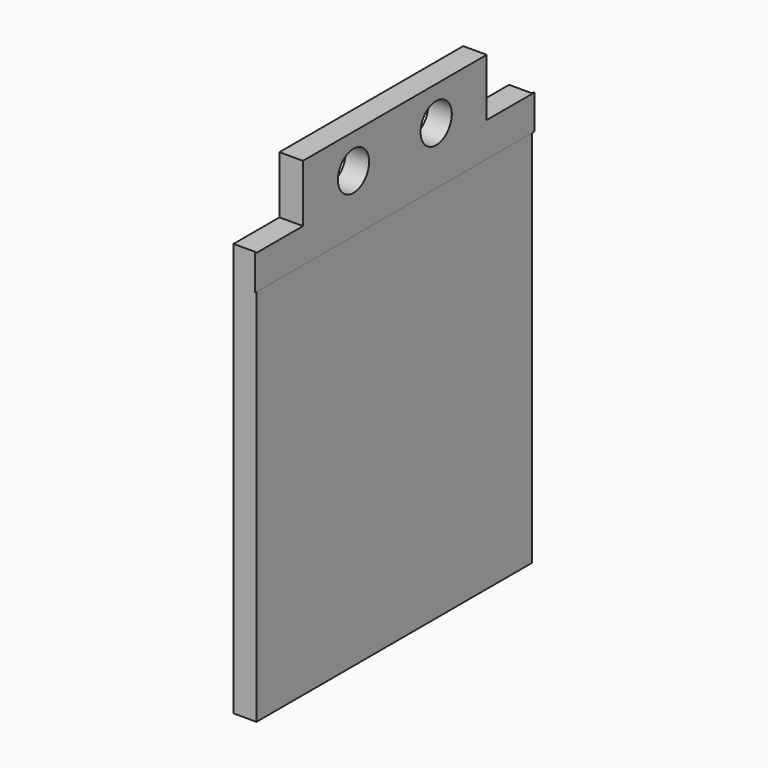
from build123d import *

# Parameters (mm, degrees)
SKETCH_W        = 42.3
SKETCH_H        = 40.3
SKETCH_R        = 12
SKETCH_R_2      = 1.7
PAD_DEPTH       = 3
CHAMFER_SIZE    = 5
SKETCH001_W     = 5
SKETCH001_H     = 20
PAD001_DEPTH    = 5
SKETCH002_R     = 1.7
POCKET_DEPTH    = 42.301
POCKET001_DEPTH = 1.5
SKETCH004_R     = 1.7
PAD002_DEPTH    = 2
SKETCH005_W     = 47.453737
SKETCH005_H     = 16.482529
POCKET002_DEPTH = 50


with BuildPart() as part:
    # Sketch → Pad (new body)
    with BuildSketch(Plane.XY):
        Rectangle(SKETCH_W, SKETCH_H)
        Circle(SKETCH_R, mode=Mode.SUBTRACT)
        with Locations((-15.5, 15.5)):
            Circle(SKETCH_R_2, mode=Mode.SUBTRACT)
        with Locations((-15.5, -15.5)):
            Circle(SKETCH_R_2, mode=Mode.SUBTRACT)
        with Locations((15.5, -15.5)):
            Circle(SKETCH_R_2, mode=Mode.SUBTRACT)
        with Locations((15.5, 15.5)):
            Circle(SKETCH_R_2, mode=Mode.SUBTRACT)
    extrude(amount=PAD_DEPTH)

    # Chamfer
    chamfer_edges = [part.edges().sort_by_distance(p)[0] for p in [
        (21.15, -20.15, 1.5),
        (-21.15, -20.15, 1.5),
        (21.15, 20.15, 1.5),
        (-21.15, 20.15, 1.5),
    ]]
    chamfer(chamfer_edges, length=CHAMFER_SIZE)

    # Sketch001 (on Face5 of Chamfer) → Pad001 (join)
    with BuildSketch(Plane.XY.offset(3)):
        with Locations((-18.65, 0)):
            Rectangle(SKETCH001_W, SKETCH001_H)
    extrude(amount=PAD001_DEPTH)

    # Sketch002 (on Face19 of Pad001) → Pocket (cut, through all)
    with BuildSketch(Plane(origin=(-21.15, 0, 0), x_dir=(0, -1, 0), z_dir=(-1, 0, 0))):
        with Locations((-4.5, 5)):
            Circle(SKETCH002_R)
        with Locations((4.5, 5)):
            Circle(SKETCH002_R)
    extrude(amount=-POCKET_DEPTH, mode=Mode.SUBTRACT)

    # Sketch003 (on DatumPlane) → Pocket001 (cut, symmetric)
    with BuildSketch(Plane(origin=(-18.65, 0, 0), x_dir=(0, -1, 0), z_dir=(-1, 0, 0))):
        Polygon((4.5, 1.65), (7.401185, 3.325), (7.401185, 13.325), (1.598815, 13.325), (1.598815, 3.325), align=None)
        Polygon((-4.5, 1.65), (-1.598815, 3.325), (-1.598815, 13.325), (-7.401185, 13.325), (-7.401185, 3.325), align=None)
    extrude(amount=POCKET001_DEPTH, both=True, mode=Mode.SUBTRACT)

    # Sketch004 (on Face6 of Pocket001) → Pad002 (join)
    with BuildSketch(Plane(origin=(-21.15, 0, 0), x_dir=(0, -1, 0), z_dir=(-1, 0, 0))):
        Polygon((15, -33), (-15, -33), (-15, 3), (-10, 3), (-10, 8), (10, 8), (10, 3), (15, 3), align=None)
        with Locations((-4.5, 5)):
            Circle(SKETCH004_R, mode=Mode.SUBTRACT)
        with Locations((4.5, 5)):
            Circle(SKETCH004_R, mode=Mode.SUBTRACT)
    extrude(amount=PAD002_DEPTH)

    # Sketch005 (on Face1 of Pad002) → Pocket002 (cut)
    with BuildSketch(Plane(origin=(0, 20.15, 0), x_dir=(-1, 0, 0), z_dir=(0, 1, 0))):
        with Locations((-2.626869, 2.50214)):
            Rectangle(SKETCH005_W, SKETCH005_H)
    extrude(amount=-POCKET002_DEPTH, mode=Mode.SUBTRACT)


solid = part.part
